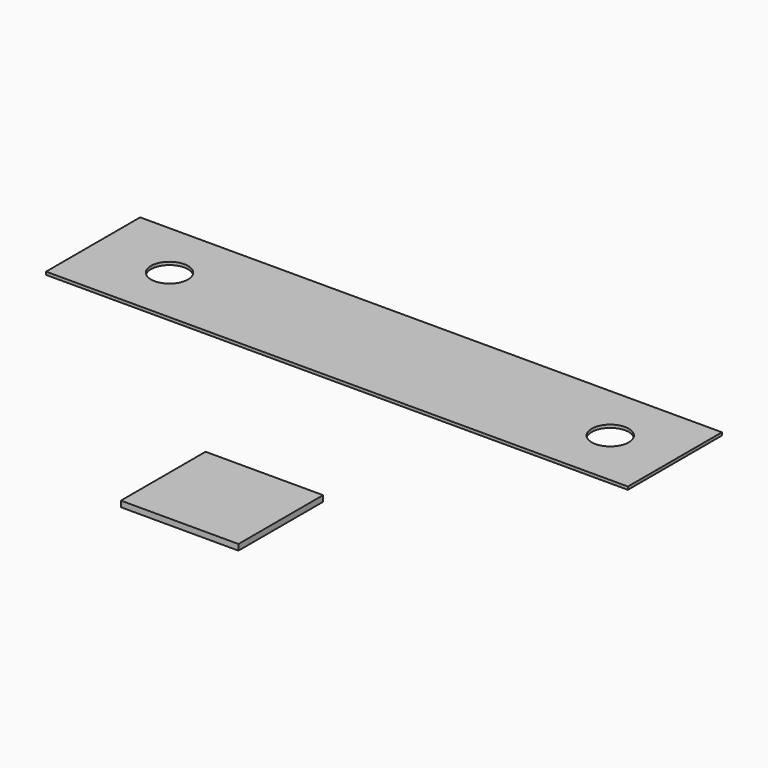
from build123d import *

# Parameters (mm, degrees)
F0_W     = 99
F0_H     = 20
F0_R     = 3.15
F1_DEPTH = 0.5
F0_W_2   = 20
F0_H_2   = 18
F2_DEPTH = 1


with BuildPart() as f1:
    # F0 (on Top) → F1 (new body)
    with BuildSketch(Plane.XY):
        with Locations((19.58815, 30.951968)):
            Rectangle(F0_W, F0_H)
        with Locations((-16.91185, 30.951968)):
            Circle(F0_R, mode=Mode.SUBTRACT)
        with Locations((58.08815, 30.951968)):
            Circle(F0_R, mode=Mode.SUBTRACT)
    extrude(amount=F1_DEPTH)


with BuildPart() as f2:
    # F0 (on Top) → F2 (new body)
    with BuildSketch(Plane.XY):
        with Locations((29.613313, -16.036072)):
            Rectangle(F0_W_2, F0_H_2)
    extrude(amount=F2_DEPTH)


solid = Compound([f1.part, f2.part])
